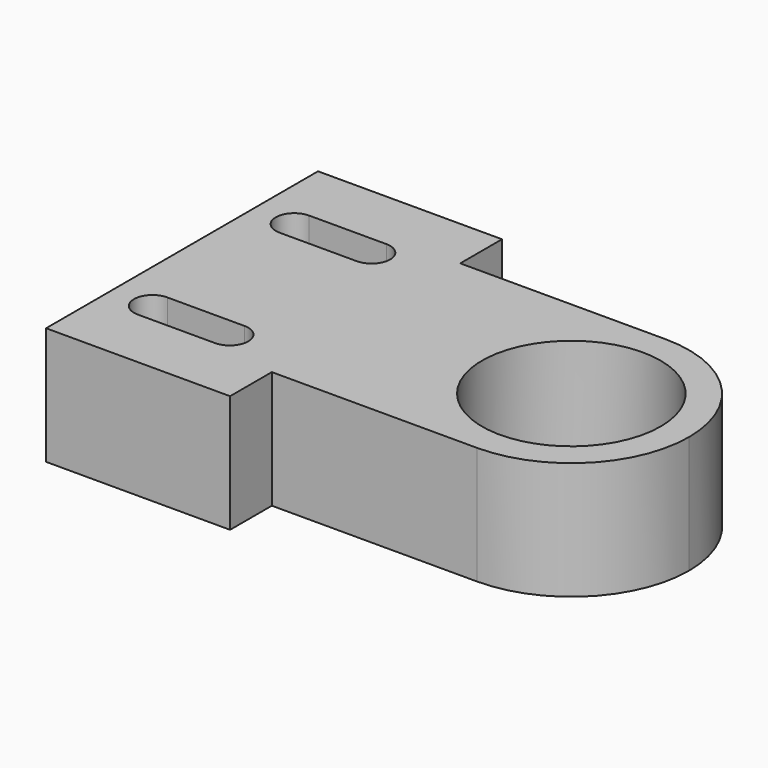
from build123d import *

# Parameters (mm, degrees)
F0_R     = 19.277076
F1_DEPTH = 25.4


with BuildPart() as f1:
    # F0 (on Top) → F1 (new body)
    with BuildSketch(Plane.XY):
        with BuildLine():
            Line((-10.792716, 44.753794), (-50.518316, 44.753794))
            Line((-50.518316, 44.753794), (-50.518316, -28.636673))
            Line((-50.518316, -28.636673), (-10.792716, -28.636673))
            Line((-10.792716, -28.636673), (-10.792716, -17.36505))
            Line((-10.792716, -17.36505), (33.529371, -17.36505))
            ThreePointArc((33.529371, -17.36505), (8.105761, 8.05856), (33.529371, 33.48217))
            Line((33.529371, 33.48217), (-10.792716, 33.48217))
            Line((-10.792716, 33.48217), (-10.792716, 44.753794))
        make_face()
        with BuildLine():
            Line((-24.900134, -15.07885), (-41.587934, -15.078852))
            ThreePointArc((-41.587934, -15.078852), (-45.586262, -11.080524), (-41.587934, -7.082196))
            Line((-41.587934, -7.082196), (-24.900134, -7.082198))
            ThreePointArc((-24.900134, -7.082198), (-20.901807, -11.080524), (-24.900134, -15.07885))
        make_face(mode=Mode.SUBTRACT)
        with BuildLine():
            ThreePointArc((-41.587934, 23.199316), (-45.586262, 27.197644), (-41.587934, 31.195972))
            Line((-41.587934, 31.195972), (-24.900134, 31.195971))
            ThreePointArc((-24.900134, 31.195971), (-20.901807, 27.197644), (-24.900134, 23.199318))
            Line((-24.900134, 23.199318), (-41.587934, 23.199316))
        make_face(mode=Mode.SUBTRACT)
        with BuildLine():
            ThreePointArc((58.952981, 8.05856), (51.506578, 26.035767), (33.529371, 33.48217))
            ThreePointArc((33.529371, 33.48217), (8.105761, 8.05856), (33.529371, -17.36505))
            ThreePointArc((33.529371, -17.36505), (51.506578, -9.918647), (58.952981, 8.05856))
        make_face()
        with Locations((33.529371, 8.05856)):
            Circle(F0_R, mode=Mode.SUBTRACT)
    extrude(amount=F1_DEPTH)


solid = f1.part
